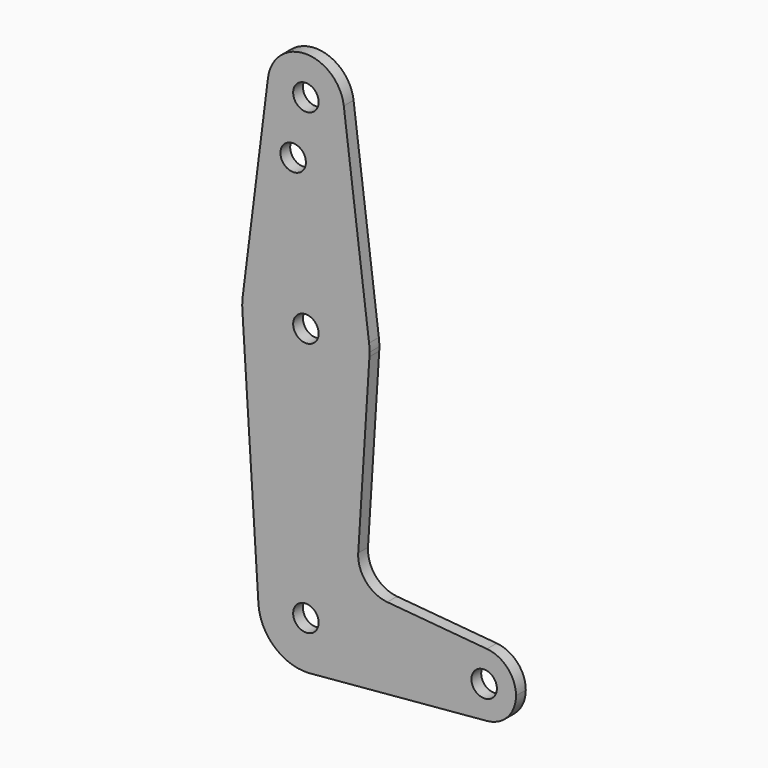
from build123d import *

# Parameters (mm, degrees)
F0_R     = 3.175
F1_DEPTH = 3.048


with BuildPart() as f1:
    # F0 (on Front) → F1 (new body)
    with BuildSketch(Plane.XZ):
        with BuildLine():
            ThreePointArc((0.124512, 47.944903), (0.093353, 48.939042), (0, 49.929278))
            ThreePointArc((0, 49.929278), (-15.750488, 63.819903), (-31.500977, 49.929278))
            ThreePointArc((-31.500977, 49.929278), (-31.617878, 48.436388), (-31.593595, 46.939124))
            ThreePointArc((-31.593595, 46.939124), (-15.750488, 32.069903), (0.092619, 46.939124))
            ThreePointArc((0.092619, 46.939124), (0.116536, 47.441761), (0.124512, 47.944903))
        make_face()
        with Locations((-15.750488, 47.944903)):
            Circle(F0_R, mode=Mode.SUBTRACT)
        with BuildLine():
            ThreePointArc((-6.300195, 99.935528), (-6.244183, 99.341386), (-6.225488, 98.744903))
            ThreePointArc((-6.225488, 98.744903), (-16.346972, 89.238598), (-25.200781, 99.935528))
            Line((-25.200781, 99.935528), (-31.500977, 49.929278))
            ThreePointArc((-31.500977, 49.929278), (-15.750488, 63.819903), (0, 49.929278))
            Line((0, 49.929278), (-6.300195, 99.935528))
        make_face()
        with Locations((-18.925488, 84.470103)):
            Circle(F0_R, mode=Mode.SUBTRACT)
        with BuildLine():
            ThreePointArc((-25.200781, 99.935528), (-16.346972, 89.238598), (-6.225488, 98.744903))
            ThreePointArc((-6.225488, 98.744903), (-6.244183, 99.341386), (-6.300195, 99.935528))
            ThreePointArc((-6.300195, 99.935528), (-15.750488, 108.269903), (-25.200781, 99.935528))
        make_face()
        with Locations((-15.750488, 98.744903)):
            Circle(F0_R, mode=Mode.SUBTRACT)
        with BuildLine():
            ThreePointArc((-3.898602, -15.555097), (-16.126122, -3.709165), (-27.578564, -16.305987))
            ThreePointArc((-27.578564, -16.305987), (-23.472446, -24.546124), (-14.70678, -27.360938))
            ThreePointArc((-14.70678, -27.360938), (-7.266757, -23.831178), (-3.922413, -16.305987))
            ThreePointArc((-3.922413, -16.305987), (-3.904557, -15.930731), (-3.898602, -15.555097))
        make_face()
        with Locations((-15.750488, -15.555097)):
            Circle(F0_R, mode=Mode.SUBTRACT)
        with BuildLine():
            ThreePointArc((0.092619, 46.939124), (-15.750488, 32.069903), (-31.593595, 46.939124))
            Line((-31.593595, 46.939124), (-27.578564, -16.305987))
            ThreePointArc((-27.578564, -16.305987), (-16.126122, -3.709165), (-3.898602, -15.555097))
            ThreePointArc((-3.898602, -15.555097), (-3.904557, -15.930731), (-3.922413, -16.305987))
            ThreePointArc((-3.922413, -16.305987), (-7.266757, -23.831178), (-14.70678, -27.360938))
            Line((-14.70678, -27.360938), (29.398509, -23.461759))
            ThreePointArc((29.398509, -23.461759), (20.762012, -15.555097), (29.398509, -7.648435))
            Line((29.398509, -7.648435), (4.535575, -5.450399))
            ThreePointArc((4.535575, -5.450399), (-0.795456, -2.710945), (-2.698537, 2.972608))
            Line((-2.698537, 2.972608), (0.092619, 46.939124))
        make_face()
        with BuildLine():
            ThreePointArc((29.398509, -7.648435), (20.762012, -15.555097), (29.398509, -23.461759))
            ThreePointArc((29.398509, -23.461759), (34.554091, -20.91493), (36.637012, -15.555097))
            ThreePointArc((36.637012, -15.555097), (34.554091, -10.195264), (29.398509, -7.648435))
        make_face()
        with Locations((28.699512, -15.555097)):
            Circle(F0_R, mode=Mode.SUBTRACT)
    extrude(amount=F1_DEPTH)


solid = f1.part
